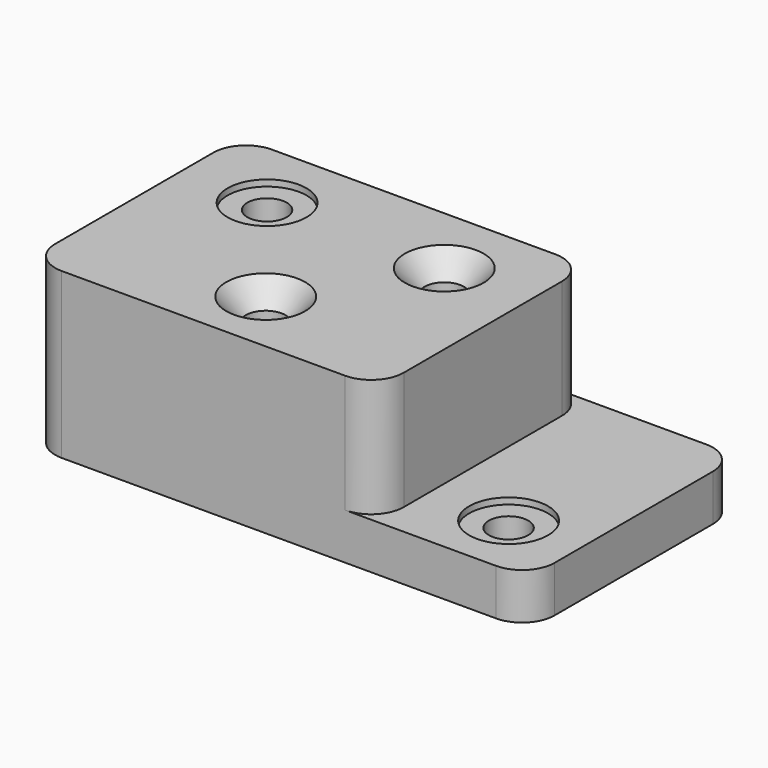
from build123d import *

# Parameters (mm, degrees)
F1_DEPTH       = 127
F4_D           = 19.05
F4_START       = 25.4
F4_CSINK_D     = 38.1
F4_CSINK_ANGLE = 82
F5_D           = 19.05
F5_START       = 25.4
F5_START_2     = 82.55
F5_CBORE_D     = 38.1
F5_CBORE_DEPTH = 3.048
F6_R           = 15.748


with BuildPart() as f1:
    # F0 (on Front) → F1 (new body)
    with BuildSketch(Plane.XZ):
        Polygon((0, 79.502), (0, 0), (241.3, 0), (241.3, 22.352), (168.402, 22.352), (168.402, 79.502), align=None)
    extrude(amount=F1_DEPTH)

    # F4 (through all)
    # its depths count from where the whole tool has entered the part; down to there all is cleared
    with Locations(Plane.XY.offset(104.902).offset(-F4_START)):
        with Locations((127, -35.052), (88.9, -95.25)):
            CounterSinkHole(F4_D / 2, F4_CSINK_D / 2, counter_sink_angle=F4_CSINK_ANGLE)

    # F5 (through all)
    # its depths count from where the whole tool has entered the part; down to there all is cleared
    with Locations(Plane.XY.offset(104.902)):
        with Locations((41.402, -35.052, -F5_START), (206.248, -95.25, -F5_START_2)):
            CounterBoreHole(F5_D / 2, F5_CBORE_D / 2, F5_CBORE_DEPTH)

    # F6
    f6_edges = [f1.edges().sort_by_distance(p)[0] for p in [
        (241.3, -127, 11.176),
        (241.3, 0, 11.176),
        (168.402, 0, 50.927),
        (168.402, -127, 50.927),
        (0, -127, 39.751),
        (0, 0, 39.751),
    ]]
    fillet(f6_edges, radius=F6_R)


solid = f1.part
